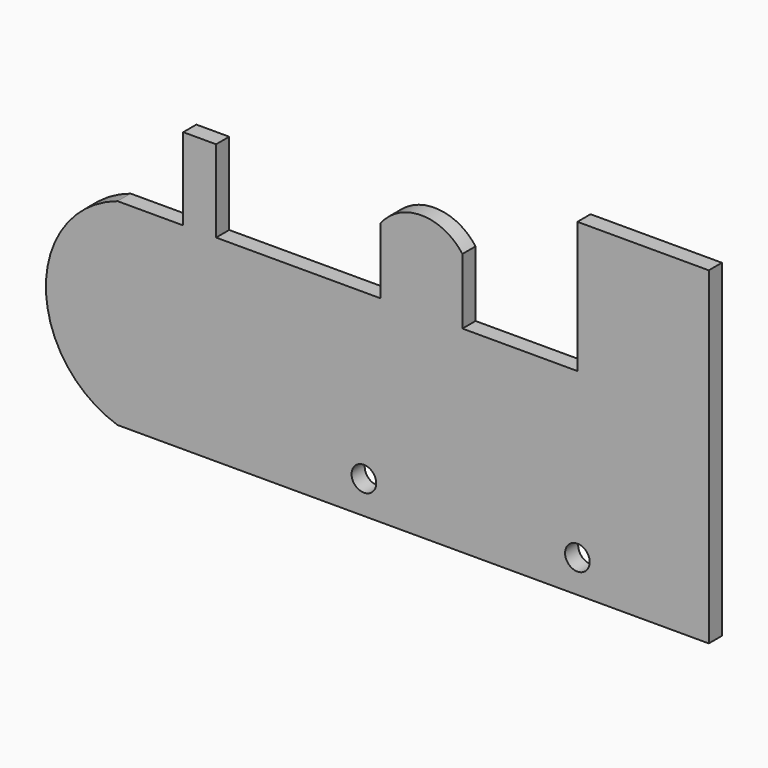
from build123d import *

# Parameters (mm, degrees)
F0_W     = 80
F0_H     = 80
F0_W_2   = 20
F0_H_2   = 50
F0_W_3   = 50
F0_H_3   = 40
F1_DEPTH = 10
F2_R     = 7.5
F3_DEPTH = 10.001


with BuildPart() as f1:
    # F0 (on Front) → F1 (new body)
    with BuildSketch(Plane.XZ):
        Polygon((0, 120), (0, 0), (360, 0), (360, 120), (280, 120), (210, 120), (160, 120), (60, 120), (40, 120), align=None)
        with BuildLine():
            ThreePointArc((0, 120), (-43.622246, 60), (0, 0))
            Line((0, 0), (0, 120))
        make_face()
        with Locations((320, 160)):
            Rectangle(F0_W, F0_H)
        with Locations((50, 145)):
            Rectangle(F0_W_2, F0_H_2)
        with Locations((185, 140)):
            Rectangle(F0_W_3, F0_H_3)
        with BuildLine():
            Line((160, 160), (210, 160))
            ThreePointArc((210, 160), (185, 172.599857), (160, 160))
        make_face()
    extrude(amount=F1_DEPTH)

    # F2 (on face) → F3 (cut, through all)
    with BuildSketch(Plane.XZ.offset(10)):
        with Locations((150, 20)):
            Circle(F2_R)
        with Locations((280, 20)):
            Circle(F2_R)
    extrude(amount=-F3_DEPTH, mode=Mode.SUBTRACT)


solid = f1.part
